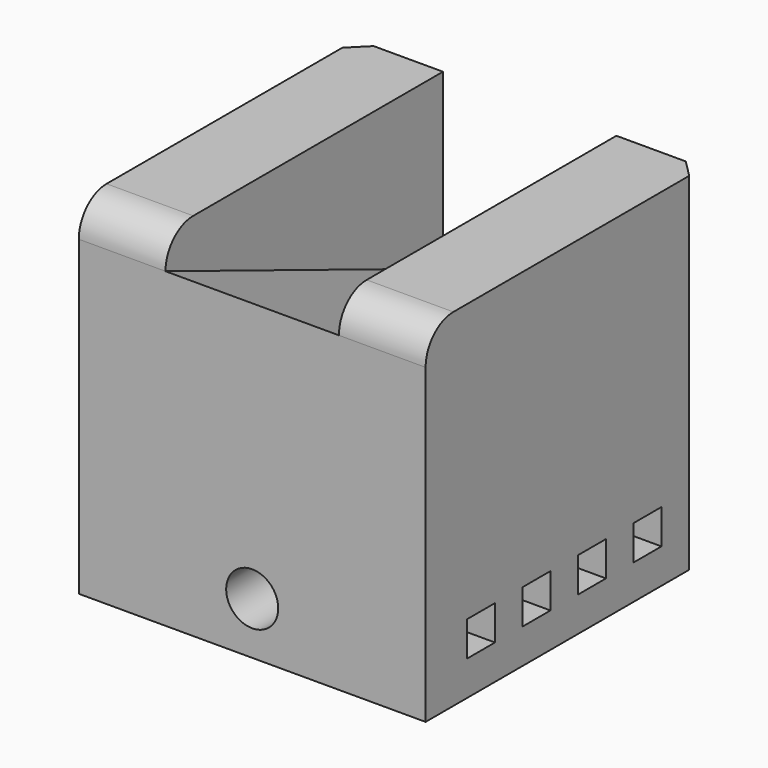
from build123d import *

# Parameters (mm, degrees)
F0_W     = 100
F0_H     = 100
F0_R     = 7.5
F1_DEPTH = 100
F4_DEPTH = 25
F5_R     = 10
F6_SIZE  = 5
F7_W     = 10
F7_H     = 10
F8_DEPTH = 20


with BuildPart() as f1:
    # F0 (on Front) → F1 (new body)
    with BuildSketch(Plane.XZ):
        with Locations((-50, 50)):
            Rectangle(F0_W, F0_H)
        with Locations((-50, 15)):
            Circle(F0_R, mode=Mode.SUBTRACT)
    extrude(amount=-F1_DEPTH)

    # F3 (on mid) → F4 (cut, symmetric)
    with BuildSketch(Plane.YZ.offset(-50)):
        Polygon((0, 100), (0, 90), (100, 50), (100, 100), align=None)
    extrude(amount=F4_DEPTH, both=True, mode=Mode.SUBTRACT)

    # F5
    f5_edges = [f1.edges().sort_by_distance(p)[0] for p in [
        (-12.5, 0, 100),
        (-87.5, 0, 100),
    ]]
    fillet(f5_edges, radius=F5_R)

    # F6
    f6_edges = [f1.edges().sort_by_distance(p)[0] for p in [
        (0, 100, 50),
        (-100, 100, 50),
    ]]
    chamfer(f6_edges, length=F6_SIZE)

    # F7 (on Right) → F8 (cut)
    with BuildSketch(Plane.YZ):
        with Locations((20, 15)):
            Rectangle(F7_W, F7_H)
        with Locations((40, 15)):
            Rectangle(F7_W, F7_H)
        with Locations((60, 15)):
            Rectangle(F7_W, F7_H)
        with Locations((80, 15)):
            Rectangle(F7_W, F7_H)
    extrude(amount=-F8_DEPTH, mode=Mode.SUBTRACT)


solid = f1.part
